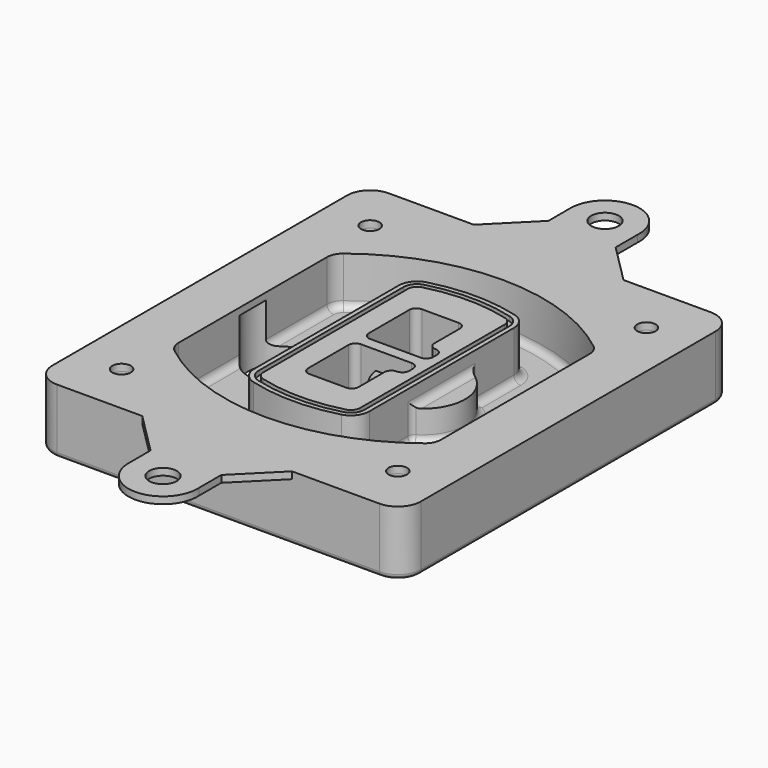
from build123d import *

# Parameters (mm, degrees)
F0_R      = 4
F1_DEPTH  = 25
F2_DEPTH  = 3
F3_DEPTH  = 18
F5_DEPTH  = 21
F6_DEPTH  = 2
F8_DEPTH  = 20
F9_DEPTH  = 16
F10_DEPTH = 25
F7_R      = 6
F7_R_2    = 4
F11_DEPTH = 6
F13_DEPTH = 9
F14_R     = 3
F15_R     = 2
F16_R     = 6
F16_R_2   = 4
F17_DEPTH = 3


with BuildPart() as f1:
    # F0 (on Top) → F1 (new body)
    with BuildSketch(Plane.XY):
        with BuildLine():
            ThreePointArc((-80, -80), (-77.0710678119, -87.0710678119), (-70, -90))
            Line((-70, -90), (70, -90))
            ThreePointArc((70, -90), (77.0710678119, -87.0710678119), (80, -80))
            Line((80, -80), (80, 80))
            ThreePointArc((80, 80), (77.0710678119, 87.0710678119), (70, 90))
            Line((70, 90), (-70, 90))
            ThreePointArc((-70, 90), (-77.0710678119, 87.0710678119), (-80, 80))
            Line((-80, 80), (-80, -80))
        make_face()
        with Locations((-60, -67.5)):
            Circle(F0_R, mode=Mode.SUBTRACT)
        with Locations((60, -67.5)):
            Circle(F0_R, mode=Mode.SUBTRACT)
        with Locations((-60, 67.5)):
            Circle(F0_R, mode=Mode.SUBTRACT)
        with BuildLine():
            ThreePointArc((-64, 40.2934422872), (-62.5820384798, 46.4328484224), (-58.6153846154, 51.3286200352))
            ThreePointArc((-58.6153846154, 51.3286200352), (0, 71.5), (58.6153846154, 51.3286200352))
            ThreePointArc((58.6153846154, 51.3286200352), (62.5820384798, 46.4328484224), (64, 40.2934422872))
            Line((64, 40.2934422872), (64, -40.2934422872))
            ThreePointArc((64, -40.2934422872), (62.5820384798, -46.4328484224), (58.6153846154, -51.3286200352))
            ThreePointArc((58.6153846154, -51.3286200352), (0, -71.5), (-58.6153846154, -51.3286200352))
            ThreePointArc((-58.6153846154, -51.3286200352), (-62.5820384798, -46.4328484224), (-64, -40.2934422872))
            Line((-64, -40.2934422872), (-64, 40.2934422872))
        make_face(mode=Mode.SUBTRACT)
        with Locations((60, 67.5)):
            Circle(F0_R, mode=Mode.SUBTRACT)
        with BuildLine():
            ThreePointArc((58.6153846154, 51.3286200352), (0, 71.5), (-58.6153846154, 51.3286200352))
            ThreePointArc((-58.6153846154, 51.3286200352), (-62.5820384798, 46.4328484224), (-64, 40.2934422872))
            Line((-64, 40.2934422872), (-64, -40.2934422872))
            ThreePointArc((-64, -40.2934422872), (-62.5820384798, -46.4328484224), (-58.6153846154, -51.3286200352))
            ThreePointArc((-58.6153846154, -51.3286200352), (0, -71.5), (58.6153846154, -51.3286200352))
            ThreePointArc((58.6153846154, -51.3286200352), (62.5820384798, -46.4328484224), (64, -40.2934422872))
            Line((64, -40.2934422872), (64, 40.2934422872))
            ThreePointArc((64, 40.2934422872), (62.5820384798, 46.4328484224), (58.6153846154, 51.3286200352))
        make_face()
        with BuildLine():
            Line((-60, -40.2934422872), (-60, 40.2934422872))
            ThreePointArc((-60, 40.2934422872), (-58.9871703427, 44.6787323838), (-56.1538461538, 48.1757121072))
            ThreePointArc((-56.1538461538, 48.1757121072), (0, 67.5), (56.1538461538, 48.1757121072))
            ThreePointArc((56.1538461538, 48.1757121072), (58.9871703427, 44.6787323838), (60, 40.2934422872))
            Line((60, 40.2934422872), (60, -40.2934422872))
            ThreePointArc((60, -40.2934422872), (58.9871703427, -44.6787323838), (56.1538461538, -48.1757121072))
            ThreePointArc((56.1538461538, -48.1757121072), (0, -67.5), (-56.1538461538, -48.1757121072))
            ThreePointArc((-56.1538461538, -48.1757121072), (-58.9871703427, -44.6787323838), (-60, -40.2934422872))
        make_face(mode=Mode.SUBTRACT)
        with BuildLine():
            ThreePointArc((-56.1538461538, 48.1757121072), (-58.9871703427, 44.6787323838), (-60, 40.2934422872))
            Line((-60, 40.2934422872), (-60, -40.2934422872))
            ThreePointArc((-60, -40.2934422872), (-58.9871703427, -44.6787323838), (-56.1538461538, -48.1757121072))
            ThreePointArc((-56.1538461538, -48.1757121072), (0, -67.5), (56.1538461538, -48.1757121072))
            ThreePointArc((56.1538461538, -48.1757121072), (58.9871703427, -44.6787323838), (60, -40.2934422872))
            Line((60, -40.2934422872), (60, 40.2934422872))
            ThreePointArc((60, 40.2934422872), (58.9871703427, 44.6787323838), (56.1538461538, 48.1757121072))
            ThreePointArc((56.1538461538, 48.1757121072), (0, 67.5), (-56.1538461538, 48.1757121072))
        make_face()
        with BuildLine():
            ThreePointArc((54.3076923077, 45.8110311612), (56.2910192399, 43.3631453548), (57, 40.2934422872))
            Line((57, 40.2934422872), (57, -40.2934422872))
            ThreePointArc((57, -40.2934422872), (56.2910192399, -43.3631453548), (54.3076923077, -45.8110311612))
            ThreePointArc((54.3076923077, -45.8110311612), (0, -64.5), (-54.3076923077, -45.8110311612))
            ThreePointArc((-54.3076923077, -45.8110311612), (-56.2910192399, -43.3631453548), (-57, -40.2934422872))
            Line((-57, -40.2934422872), (-57, 40.2934422872))
            ThreePointArc((-57, 40.2934422872), (-56.2910192399, 43.3631453548), (-54.3076923077, 45.8110311612))
            ThreePointArc((-54.3076923077, 45.8110311612), (0, 64.5), (54.3076923077, 45.8110311612))
        make_face(mode=Mode.SUBTRACT)
        with BuildLine():
            Line((57, -40.2934422872), (57, 40.2934422872))
            ThreePointArc((57, 40.2934422872), (56.2910192399, 43.3631453548), (54.3076923077, 45.8110311612))
            ThreePointArc((54.3076923077, 45.8110311612), (0, 64.5), (-54.3076923077, 45.8110311612))
            ThreePointArc((-54.3076923077, 45.8110311612), (-56.2910192399, 43.3631453548), (-57, 40.2934422872))
            Line((-57, 40.2934422872), (-57, -40.2934422872))
            ThreePointArc((-57, -40.2934422872), (-56.2910192399, -43.3631453548), (-54.3076923077, -45.8110311612))
            ThreePointArc((-54.3076923077, -45.8110311612), (0, -64.5), (54.3076923077, -45.8110311612))
            ThreePointArc((54.3076923077, -45.8110311612), (56.2910192399, -43.3631453548), (57, -40.2934422872))
        make_face()
    extrude(amount=-F1_DEPTH)

    # F0 (on Top) → F2 (join)
    with BuildSketch(Plane.XY):
        with BuildLine():
            ThreePointArc((-56.1538461538, 48.1757121072), (-58.9871703427, 44.6787323838), (-60, 40.2934422872))
            Line((-60, 40.2934422872), (-60, -40.2934422872))
            ThreePointArc((-60, -40.2934422872), (-58.9871703427, -44.6787323838), (-56.1538461538, -48.1757121072))
            ThreePointArc((-56.1538461538, -48.1757121072), (0, -67.5), (56.1538461538, -48.1757121072))
            ThreePointArc((56.1538461538, -48.1757121072), (58.9871703427, -44.6787323838), (60, -40.2934422872))
            Line((60, -40.2934422872), (60, 40.2934422872))
            ThreePointArc((60, 40.2934422872), (58.9871703427, 44.6787323838), (56.1538461538, 48.1757121072))
            ThreePointArc((56.1538461538, 48.1757121072), (0, 67.5), (-56.1538461538, 48.1757121072))
        make_face()
        with BuildLine():
            ThreePointArc((54.3076923077, 45.8110311612), (56.2910192399, 43.3631453548), (57, 40.2934422872))
            Line((57, 40.2934422872), (57, -40.2934422872))
            ThreePointArc((57, -40.2934422872), (56.2910192399, -43.3631453548), (54.3076923077, -45.8110311612))
            ThreePointArc((54.3076923077, -45.8110311612), (0, -64.5), (-54.3076923077, -45.8110311612))
            ThreePointArc((-54.3076923077, -45.8110311612), (-56.2910192399, -43.3631453548), (-57, -40.2934422872))
            Line((-57, -40.2934422872), (-57, 40.2934422872))
            ThreePointArc((-57, 40.2934422872), (-56.2910192399, 43.3631453548), (-54.3076923077, 45.8110311612))
            ThreePointArc((-54.3076923077, 45.8110311612), (0, 64.5), (54.3076923077, 45.8110311612))
        make_face(mode=Mode.SUBTRACT)
    extrude(amount=F2_DEPTH)

    # F0 (on Top) → F3 (cut)
    with BuildSketch(Plane.XY):
        with BuildLine():
            Line((57, -40.2934422872), (57, 40.2934422872))
            ThreePointArc((57, 40.2934422872), (56.2910192399, 43.3631453548), (54.3076923077, 45.8110311612))
            ThreePointArc((54.3076923077, 45.8110311612), (0, 64.5), (-54.3076923077, 45.8110311612))
            ThreePointArc((-54.3076923077, 45.8110311612), (-56.2910192399, 43.3631453548), (-57, 40.2934422872))
            Line((-57, 40.2934422872), (-57, -40.2934422872))
            ThreePointArc((-57, -40.2934422872), (-56.2910192399, -43.3631453548), (-54.3076923077, -45.8110311612))
            ThreePointArc((-54.3076923077, -45.8110311612), (0, -64.5), (54.3076923077, -45.8110311612))
            ThreePointArc((54.3076923077, -45.8110311612), (56.2910192399, -43.3631453548), (57, -40.2934422872))
        make_face()
    extrude(amount=-F3_DEPTH, mode=Mode.SUBTRACT)

    # F4 (on face) → F5 (join, through all)
    with BuildSketch(Plane.XY.offset(3)):
        with BuildLine():
            ThreePointArc((-25, -39.2465276821), (-23.3511545998, -44.1109737193), (-19.0842911877, -46.9702398883))
            ThreePointArc((-19.0842911877, -46.9702398883), (0, -49.5), (19.0842911877, -46.9702398883))
            ThreePointArc((19.0842911877, -46.9702398883), (23.3511545998, -44.1109737193), (25, -39.2465276821))
            Line((25, -39.2465276821), (25, 39.2465276821))
            ThreePointArc((25, 39.2465276821), (23.3511545998, 44.1109737193), (19.0842911877, 46.9702398883))
            ThreePointArc((19.0842911877, 46.9702398883), (0, 49.5), (-19.0842911877, 46.9702398883))
            ThreePointArc((-19.0842911877, 46.9702398883), (-23.3511545998, 44.1109737193), (-25, 39.2465276821))
            Line((-25, 39.2465276821), (-25, -39.2465276821))
        make_face()
        with BuildLine():
            ThreePointArc((18.5632183908, 45.0393118368), (21.7633659499, 42.89486221), (23, 39.2465276821))
            Line((23, 39.2465276821), (23, -39.2465276821))
            ThreePointArc((23, -39.2465276821), (21.7633659499, -42.89486221), (18.5632183908, -45.0393118368))
            ThreePointArc((18.5632183908, -45.0393118368), (0, -47.5), (-18.5632183908, -45.0393118368))
            ThreePointArc((-18.5632183908, -45.0393118368), (-21.7633659499, -42.89486221), (-23, -39.2465276821))
            Line((-23, -39.2465276821), (-23, 39.2465276821))
            ThreePointArc((-23, 39.2465276821), (-21.7633659499, 42.89486221), (-18.5632183908, 45.0393118368))
            ThreePointArc((-18.5632183908, 45.0393118368), (0, 47.5), (18.5632183908, 45.0393118368))
        make_face(mode=Mode.SUBTRACT)
        with BuildLine():
            Line((23, -39.2465276821), (23, 39.2465276821))
            ThreePointArc((23, 39.2465276821), (21.7633659499, 42.89486221), (18.5632183908, 45.0393118368))
            ThreePointArc((18.5632183908, 45.0393118368), (0, 47.5), (-18.5632183908, 45.0393118368))
            ThreePointArc((-18.5632183908, 45.0393118368), (-21.7633659499, 42.89486221), (-23, 39.2465276821))
            Line((-23, 39.2465276821), (-23, -39.2465276821))
            ThreePointArc((-23, -39.2465276821), (-21.7633659499, -42.89486221), (-18.5632183908, -45.0393118368))
            ThreePointArc((-18.5632183908, -45.0393118368), (0, -47.5), (18.5632183908, -45.0393118368))
            ThreePointArc((18.5632183908, -45.0393118368), (21.7633659499, -42.89486221), (23, -39.2465276821))
        make_face()
        with BuildLine():
            ThreePointArc((18.0421455939, 43.1083837852), (20.1755772999, 41.6787507007), (21, 39.2465276821))
            Line((21, 39.2465276821), (21, -39.2465276821))
            ThreePointArc((21, -39.2465276821), (20.1755772999, -41.6787507007), (18.0421455939, -43.1083837852))
            ThreePointArc((18.0421455939, -43.1083837852), (0, -45.5), (-18.0421455939, -43.1083837852))
            ThreePointArc((-18.0421455939, -43.1083837852), (-20.1755772999, -41.6787507007), (-21, -39.2465276821))
            Line((-21, -39.2465276821), (-21, 39.2465276821))
            ThreePointArc((-21, 39.2465276821), (-20.1755772999, 41.6787507007), (-18.0421455939, 43.1083837852))
            ThreePointArc((-18.0421455939, 43.1083837852), (0, 45.5), (18.0421455939, 43.1083837852))
        make_face(mode=Mode.SUBTRACT)
        with BuildLine():
            Line((21, -39.2465276821), (21, 39.2465276821))
            ThreePointArc((21, 39.2465276821), (20.1755772999, 41.6787507007), (18.0421455939, 43.1083837852))
            ThreePointArc((18.0421455939, 43.1083837852), (0, 45.5), (-18.0421455939, 43.1083837852))
            ThreePointArc((-18.0421455939, 43.1083837852), (-20.1755772999, 41.6787507007), (-21, 39.2465276821))
            Line((-21, 39.2465276821), (-21, -39.2465276821))
            ThreePointArc((-21, -39.2465276821), (-20.1755772999, -41.6787507007), (-18.0421455939, -43.1083837852))
            ThreePointArc((-18.0421455939, -43.1083837852), (0, -45.5), (18.0421455939, -43.1083837852))
            ThreePointArc((18.0421455939, -43.1083837852), (20.1755772999, -41.6787507007), (21, -39.2465276821))
        make_face()
        with BuildLine():
            Line((-8, -2.5), (14, -2.5))
            ThreePointArc((14, -2.5), (16.1213203436, -3.3786796564), (17, -5.5))
            Line((17, -5.5), (17, -7.5))
            ThreePointArc((17, -7.5), (16.1213203436, -9.6213203436), (14, -10.5))
            ThreePointArc((14, -10.5), (11.8786796564, -11.3786796564), (11, -13.5))
            Line((11, -13.5), (11, -27.5))
            ThreePointArc((11, -27.5), (10.1213203436, -29.6213203436), (8, -30.5))
            Line((8, -30.5), (-8, -30.5))
            ThreePointArc((-8, -30.5), (-10.1213203436, -29.6213203436), (-11, -27.5))
            Line((-11, -27.5), (-11, -5.5))
            ThreePointArc((-11, -5.5), (-10.1213203436, -3.3786796564), (-8, -2.5))
        make_face(mode=Mode.SUBTRACT)
        with BuildLine():
            ThreePointArc((-8, 2.5), (-10.1213203436, 3.3786796564), (-11, 5.5))
            Line((-11, 5.5), (-11, 27.5))
            ThreePointArc((-11, 27.5), (-10.1213203436, 29.6213203436), (-8, 30.5))
            Line((-8, 30.5), (8, 30.5))
            ThreePointArc((8, 30.5), (10.1213203436, 29.6213203436), (11, 27.5))
            Line((11, 27.5), (11, 13.5))
            ThreePointArc((11, 13.5), (11.8786796564, 11.3786796564), (14, 10.5))
            ThreePointArc((14, 10.5), (16.1213203436, 9.6213203436), (17, 7.5))
            Line((17, 7.5), (17, 5.5))
            ThreePointArc((17, 5.5), (16.1213203436, 3.3786796564), (14, 2.5))
            Line((14, 2.5), (-8, 2.5))
        make_face(mode=Mode.SUBTRACT)
    extrude(amount=-F5_DEPTH)

    # F4 (on face) → F6 (cut)
    with BuildSketch(Plane.XY.offset(3)):
        with BuildLine():
            Line((23, -39.2465276821), (23, 39.2465276821))
            ThreePointArc((23, 39.2465276821), (21.7633659499, 42.89486221), (18.5632183908, 45.0393118368))
            ThreePointArc((18.5632183908, 45.0393118368), (0, 47.5), (-18.5632183908, 45.0393118368))
            ThreePointArc((-18.5632183908, 45.0393118368), (-21.7633659499, 42.89486221), (-23, 39.2465276821))
            Line((-23, 39.2465276821), (-23, -39.2465276821))
            ThreePointArc((-23, -39.2465276821), (-21.7633659499, -42.89486221), (-18.5632183908, -45.0393118368))
            ThreePointArc((-18.5632183908, -45.0393118368), (0, -47.5), (18.5632183908, -45.0393118368))
            ThreePointArc((18.5632183908, -45.0393118368), (21.7633659499, -42.89486221), (23, -39.2465276821))
        make_face()
        with BuildLine():
            ThreePointArc((18.0421455939, 43.1083837852), (20.1755772999, 41.6787507007), (21, 39.2465276821))
            Line((21, 39.2465276821), (21, -39.2465276821))
            ThreePointArc((21, -39.2465276821), (20.1755772999, -41.6787507007), (18.0421455939, -43.1083837852))
            ThreePointArc((18.0421455939, -43.1083837852), (0, -45.5), (-18.0421455939, -43.1083837852))
            ThreePointArc((-18.0421455939, -43.1083837852), (-20.1755772999, -41.6787507007), (-21, -39.2465276821))
            Line((-21, -39.2465276821), (-21, 39.2465276821))
            ThreePointArc((-21, 39.2465276821), (-20.1755772999, 41.6787507007), (-18.0421455939, 43.1083837852))
            ThreePointArc((-18.0421455939, 43.1083837852), (0, 45.5), (18.0421455939, 43.1083837852))
        make_face(mode=Mode.SUBTRACT)
    extrude(amount=-F6_DEPTH, mode=Mode.SUBTRACT)

    # F7 (on face) → F8 (join)
    with BuildSketch(Plane(origin=(0, 0, -25), x_dir=(1, 0, 0), z_dir=(0, 0, -1))):
        with BuildLine():
            ThreePointArc((3.28842436, 0), (16.7567035675, 13.4682792075), (30.224982775, 0))
            Line((30.224982775, 0), (35.224982775, 0))
            ThreePointArc((35.224982775, 0), (16.7567035675, 18.4682792075), (-1.71157564, 0))
            Line((-1.71157564, 0), (3.28842436, 0))
        make_face()
        with BuildLine():
            Line((3.28842436, 0), (30.224982775, 0))
            ThreePointArc((30.224982775, 0), (16.7567035675, 13.4682792075), (3.28842436, 0))
        make_face()
        with BuildLine():
            ThreePointArc((3.28842436, 0), (16.7567035675, -13.4682792075), (30.224982775, 0))
            Line((30.224982775, 0), (3.28842436, 0))
        make_face()
        with BuildLine():
            Line((35.224982775, 0), (30.224982775, 0))
            ThreePointArc((30.224982775, 0), (16.7567035675, -13.4682792075), (3.28842436, 0))
            Line((3.28842436, 0), (-1.71157564, 0))
            ThreePointArc((-1.71157564, 0), (16.7567035675, -18.4682792075), (35.224982775, 0))
        make_face()
    extrude(amount=-F8_DEPTH)

    # F7 (on face) → F9 (cut)
    with BuildSketch(Plane(origin=(0, 0, -25), x_dir=(1, 0, 0), z_dir=(0, 0, -1))):
        with BuildLine():
            Line((3.28842436, 0), (30.224982775, 0))
            ThreePointArc((30.224982775, 0), (16.7567035675, 13.4682792075), (3.28842436, 0))
        make_face()
        with BuildLine():
            ThreePointArc((3.28842436, 0), (16.7567035675, -13.4682792075), (30.224982775, 0))
            Line((30.224982775, 0), (3.28842436, 0))
        make_face()
    extrude(amount=-F9_DEPTH, mode=Mode.SUBTRACT)

    # F7 (on face) → F10 (cut)
    with BuildSketch(Plane(origin=(0, 0, -25), x_dir=(1, 0, 0), z_dir=(0, 0, -1))):
        with BuildLine():
            Line((-59.0318229325, 0), (-32.0952645175, 0))
            ThreePointArc((-32.0952645175, 0), (-45.563543725, 13.4682792075), (-59.0318229325, 0))
        make_face()
        with BuildLine():
            ThreePointArc((-59.0318229325, 0), (-45.563543725, -13.4682792075), (-32.0952645175, 0))
            Line((-32.0952645175, 0), (-59.0318229325, 0))
        make_face()
    extrude(amount=-F10_DEPTH, mode=Mode.SUBTRACT)

    # F7 (on face) → F11 (cut)
    with BuildSketch(Plane(origin=(0, 0, -25), x_dir=(1, 0, 0), z_dir=(0, 0, -1))):
        with Locations((60, -67.5)):
            Circle(F7_R)
        with Locations((60, -67.5)):
            Circle(F7_R_2, mode=Mode.SUBTRACT)
        with Locations((60, -67.5)):
            Circle(F7_R)
        with Locations((60, -67.5)):
            Circle(F7_R_2, mode=Mode.SUBTRACT)
        with Locations((-60, -67.5)):
            Circle(F7_R)
        with Locations((-60, -67.5)):
            Circle(F7_R_2, mode=Mode.SUBTRACT)
        with Locations((-60, -67.5)):
            Circle(F7_R)
        with Locations((-60, -67.5)):
            Circle(F7_R_2, mode=Mode.SUBTRACT)
        with Locations((-60, 67.5)):
            Circle(F7_R)
        with Locations((-60, 67.5)):
            Circle(F7_R_2, mode=Mode.SUBTRACT)
        with Locations((-60, 67.5)):
            Circle(F7_R)
        with Locations((-60, 67.5)):
            Circle(F7_R_2, mode=Mode.SUBTRACT)
        with Locations((60, 67.5)):
            Circle(F7_R)
        with Locations((60, 67.5)):
            Circle(F7_R_2, mode=Mode.SUBTRACT)
        with Locations((60, 67.5)):
            Circle(F7_R)
        with Locations((60, 67.5)):
            Circle(F7_R_2, mode=Mode.SUBTRACT)
    extrude(amount=-F11_DEPTH, mode=Mode.SUBTRACT)

    # F12 (on face) → F13 (cut, through all)
    with BuildSketch(Plane(origin=(0, 0, -9), x_dir=(1, 0, 0), z_dir=(0, 0, -1))):
        with BuildLine():
            Line((11, 13.5), (11, 17.5481537753))
            ThreePointArc((11, 17.5481537753), (2.5696536419, 11.8239143813), (-1.5415842455, 2.5))
            Line((-1.5415842455, 2.5), (3.5224848595, 2.5))
            ThreePointArc((3.5224848595, 2.5), (6.1857188154, 8.3455872281), (11.2536447004, 12.2927168648))
            ThreePointArc((11.2536447004, 12.2927168648), (11.0640958889, 12.8831798879), (11, 13.5))
        make_face()
        with BuildLine():
            ThreePointArc((11.2536447004, -12.2927168648), (6.1857188154, -8.3455872281), (3.5224848595, -2.5))
            Line((3.5224848595, -2.5), (-1.5415842455, -2.5))
            ThreePointArc((-1.5415842455, -2.5), (2.5696536419, -11.8239143813), (11, -17.5481537753))
            Line((11, -17.5481537753), (11, -13.5))
            ThreePointArc((11, -13.5), (11.0640958889, -12.8831798879), (11.2536447004, -12.2927168648))
        make_face()
        with BuildLine():
            ThreePointArc((11.2536447004, 12.2927168648), (6.1857188154, 8.3455872281), (3.5224848595, 2.5))
            Line((3.5224848595, 2.5), (14, 2.5))
            ThreePointArc((14, 2.5), (16.1213203436, 3.3786796564), (17, 5.5))
            Line((17, 5.5), (17, 7.5))
            ThreePointArc((17, 7.5), (16.1213203436, 9.6213203436), (14, 10.5))
            ThreePointArc((14, 10.5), (12.3601599782, 10.9878446101), (11.2536447004, 12.2927168648))
        make_face()
        with BuildLine():
            Line((14, -2.5), (3.5224848595, -2.5))
            ThreePointArc((3.5224848595, -2.5), (6.1857188154, -8.3455872281), (11.2536447004, -12.2927168648))
            ThreePointArc((11.2536447004, -12.2927168648), (12.3601599782, -10.9878446101), (14, -10.5))
            ThreePointArc((14, -10.5), (16.1213203436, -9.6213203436), (17, -7.5))
            Line((17, -7.5), (17, -5.5))
            ThreePointArc((17, -5.5), (16.1213203436, -3.3786796564), (14, -2.5))
        make_face()
    extrude(amount=F13_DEPTH, mode=Mode.SUBTRACT)

    # F14
    f14_edges = [f1.edges().sort_by_distance(p)[0] for p in [
        (-57, -23.703476, -18),
        (-57, 23.703476, -18),
        (25, 0, -5),
        (25, 16.526506, -11.5),
        (25, -16.526506, -11.5),
        (25, -27.886517, -18),
        (35.224983, 0, -18),
    ]]
    fillet(f14_edges, radius=F14_R)

    # F15
    f15_edges = [f1.edges().sort_by_distance(p)[0] for p in [
        (0, -90, -25),
    ]]
    fillet(f15_edges, radius=F15_R)

    # F16 (on face) → F17 (join, through all)
    with BuildSketch(Plane.XY):
        with BuildLine():
            Line((-15, 108), (-33, 90))
            Line((-33, 90), (32.0355710666, 90))
            Line((32.0355710666, 90), (14.970815535, 107.0647555316))
            Line((14.970815535, 107.0647555316), (14.970815535, 119.0647555316))
            ThreePointArc((14.970815535, 119.0647555316), (0.4678498554, 134.9927021085), (-15, 120))
            Line((-15, 120), (-15, 108))
        make_face()
        with Locations((0, 120)):
            Circle(F16_R, mode=Mode.SUBTRACT)
        with BuildLine():
            Line((32.0355710666, 90), (-33, 90))
            Line((-33, 90), (-70, 90))
            ThreePointArc((-70, 90), (-77.0710678119, 87.0710678119), (-80, 80))
            Line((-80, 80), (-80, -80))
            ThreePointArc((-80, -80), (-77.0710678119, -87.0710678119), (-70, -90))
            Line((-70, -90), (-33, -90))
            Line((-33, -90), (32.0355710666, -90))
            Line((32.0355710666, -90), (70, -90))
            ThreePointArc((70, -90), (77.0710678119, -87.0710678119), (80, -80))
            Line((80, -80), (80, 80))
            ThreePointArc((80, 80), (77.0710678119, 87.0710678119), (70, 90))
            Line((70, 90), (32.0355710666, 90))
        make_face()
        with Locations((-60, -67.5)):
            Circle(F16_R_2, mode=Mode.SUBTRACT)
        with Locations((60, -67.5)):
            Circle(F16_R_2, mode=Mode.SUBTRACT)
        with Locations((-60, 67.5)):
            Circle(F16_R_2, mode=Mode.SUBTRACT)
        with BuildLine():
            ThreePointArc((-60, 40.2934422872), (-58.9871703427, 44.6787323838), (-56.1538461538, 48.1757121072))
            ThreePointArc((-56.1538461538, 48.1757121072), (0, 67.5), (56.1538461538, 48.1757121072))
            ThreePointArc((56.1538461538, 48.1757121072), (58.9871703427, 44.6787323838), (60, 40.2934422872))
            Line((60, 40.2934422872), (60, -40.2934422872))
            ThreePointArc((60, -40.2934422872), (58.9871703427, -44.6787323838), (56.1538461538, -48.1757121072))
            ThreePointArc((56.1538461538, -48.1757121072), (0, -67.5), (-56.1538461538, -48.1757121072))
            ThreePointArc((-56.1538461538, -48.1757121072), (-58.9871703427, -44.6787323838), (-60, -40.2934422872))
            Line((-60, -40.2934422872), (-60, 40.2934422872))
        make_face(mode=Mode.SUBTRACT)
        with Locations((60, 67.5)):
            Circle(F16_R_2, mode=Mode.SUBTRACT)
        with BuildLine():
            Line((32.0355710666, -90), (-33, -90))
            Line((-33, -90), (-15, -108))
            Line((-15, -108), (-15, -120))
            ThreePointArc((-15, -120), (0.4678498554, -134.9927021085), (14.970815535, -119.0647555316))
            Line((14.970815535, -119.0647555316), (14.970815535, -107.0647555316))
            Line((14.970815535, -107.0647555316), (32.0355710666, -90))
        make_face()
        with Locations((0, -120)):
            Circle(F16_R, mode=Mode.SUBTRACT)
    extrude(amount=F17_DEPTH)


solid = f1.part
